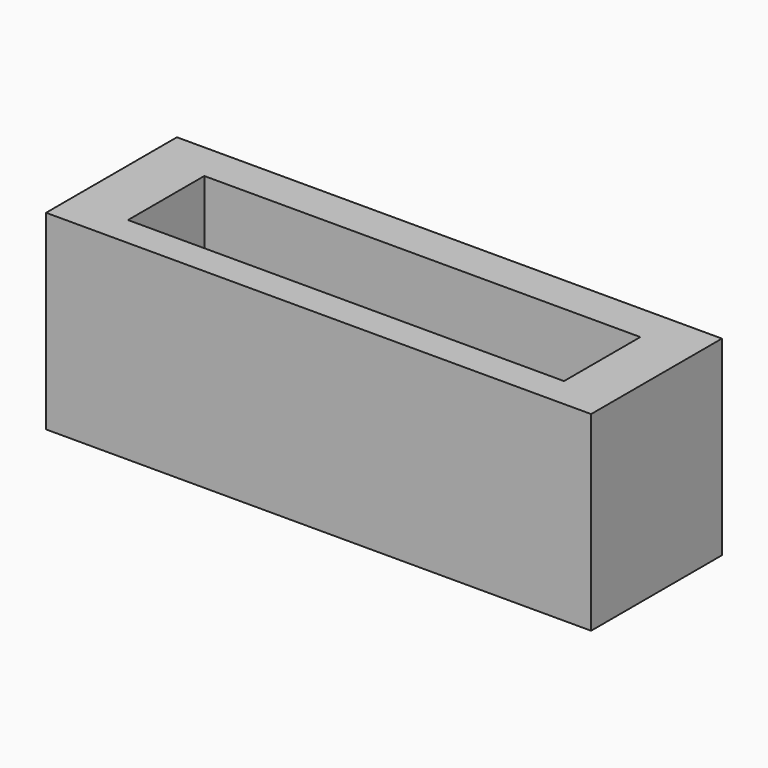
from build123d import *

# Parameters (mm, degrees)
BOX_W        = 20
BOX_H        = 6
BOX_DEPTH    = 7
SKETCH_W     = 16
SKETCH_H     = 3.5
POCKET_DEPTH = 9


with BuildPart() as part:
    # Box → Box (new body)
    with BuildSketch(Plane.XY):
        with Locations((10, 3)):
            Rectangle(BOX_W, BOX_H)
    extrude(amount=BOX_DEPTH)

    # Sketch (on Face6 of BaseFeature) → Pocket (cut)
    with BuildSketch(Plane.XY.offset(7)):
        with Locations((10.11532, 2.863184)):
            Rectangle(SKETCH_W, SKETCH_H)
    extrude(amount=-POCKET_DEPTH, mode=Mode.SUBTRACT)


solid = part.part
